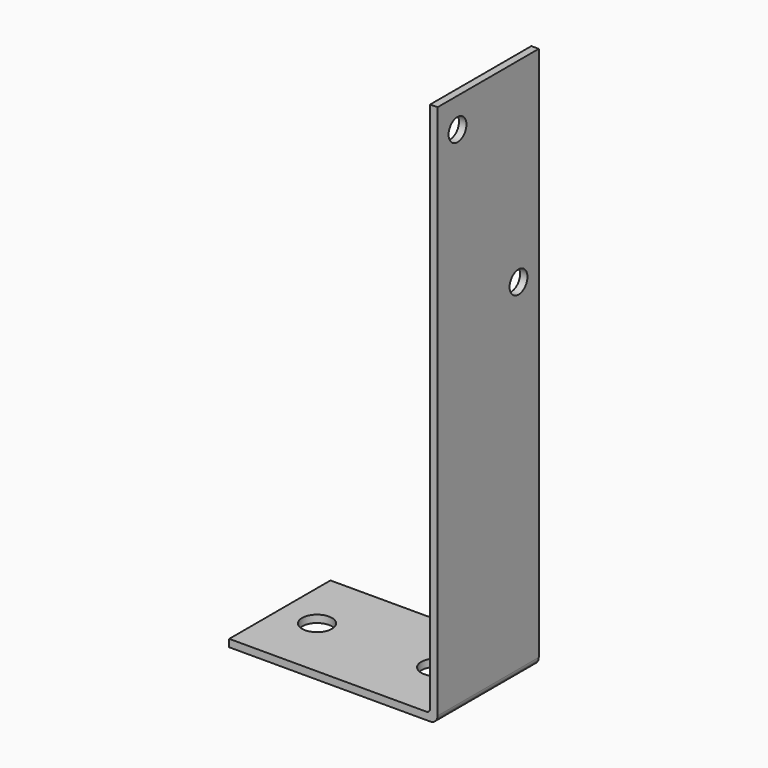
from build123d import *

# Parameters (mm, degrees)
F1_DEPTH = 8.5
F2_R     = 1
F3_R     = 0.5
F4_R     = 2
F5_DEPTH = 3
F6_R     = 1.5
F7_DEPTH = 3


with BuildPart() as f1:
    # F0 (on Front) → F1 (new body, symmetric)
    with BuildSketch(Plane.XZ):
        Polygon((0, 0), (0, 73), (-1, 73), (-1, 1), (-28, 1), (-28, 0), align=None)
    extrude(amount=F1_DEPTH, both=True)

    # F2
    f2_edges = [f1.edges().sort_by_distance(p)[0] for p in [
        (0, 0, 0),
    ]]
    fillet(f2_edges, radius=F2_R)

    # F3
    f3_edges = [f1.edges().sort_by_distance(p)[0] for p in [
        (-1, 0, 1),
    ]]
    fillet(f3_edges, radius=F3_R)

    # F4 (on face) → F5 (cut)
    with BuildSketch(Plane(origin=(0, 0, 0), x_dir=(1, 0, 0), z_dir=(0, 0, -1))):
        with Locations((-23, 0)):
            Circle(F4_R)
        with Locations((-7, 0)):
            Circle(F4_R)
    extrude(amount=-F5_DEPTH, mode=Mode.SUBTRACT)

    # F6 (on face) → F7 (cut)
    with BuildSketch(Plane.YZ):
        with Locations((5.1, 46.8)):
            Circle(F6_R)
        with Locations((-5.15, 69)):
            Circle(F6_R)
    extrude(amount=-F7_DEPTH, mode=Mode.SUBTRACT)


solid = f1.part
